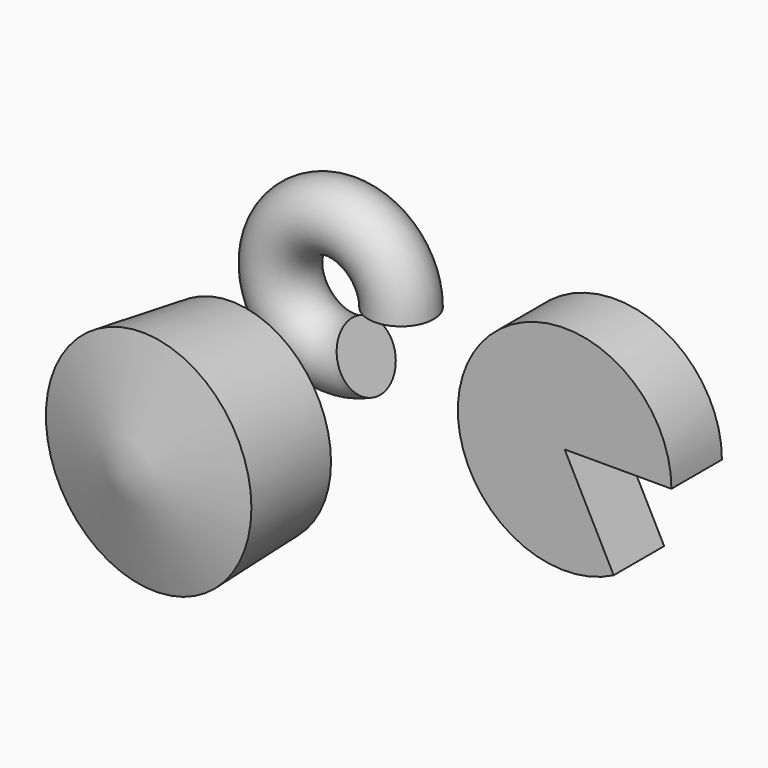
from build123d import *

# Parameters (mm, degrees)
F0_W     = 36.5379918367
F0_H     = 21.5906333178
F1_ANGLE = 297.3352044647
F0_R     = 11.1797222355
F2_ANGLE = 295


with BuildPart() as f1:
    # F0 (on Top) → F1 (revolve)
    with BuildSketch(Plane.XY):
        with Locations((41.5204456076, 26.3654785231)):
            Rectangle(F0_W, F0_H)
    revolve(axis=Axis((23.2514496893, 26.3654785231, 0), (0, -1, 0)), revolution_arc=F1_ANGLE)


with BuildPart() as f2:
    # F0 (on Top) → F2 (revolve)
    with BuildSketch(Plane.XY):
        with Locations((-62.280677259, 52.5233596563)):
            Circle(F0_R)
    revolve(axis=Axis((-82.9103291035, 50.9820729494, 0), (0, -1, 0)), revolution_arc=F2_ANGLE)


with BuildPart() as f3:
    # F0 (on Top) → F3 (revolve)
    with BuildSketch(Plane.XY):
        Polygon((-20.9524314851, -29.0797241032), (-54.9991987646, -17.4539964646), (-59.9816553295, -69.3545565009), (-20.9524314851, -63.1264895201), align=None)
        Polygon((-50.4319518805, -55.2375987172), (-44.6190871298, -31.9861508906), (-37.9269696142, -58.3638457864), align=None, mode=Mode.SUBTRACT)
    revolve(axis=Axis((-57.490427047, -43.4042764828, 0), (0.0955607196, 0.9954236027, 0)))


solid = Compound([f1.part, f2.part, f3.part])
